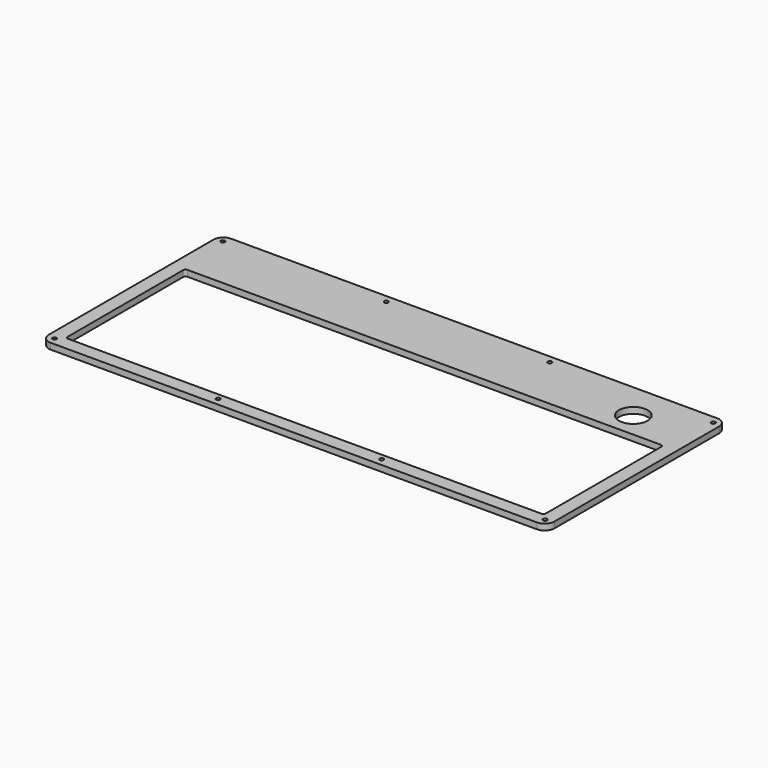
from build123d import *

# Parameters (mm, degrees)
SKETCH_W        = 263.525
SKETCH_H        = 117.475
PAD_DEPTH       = 3.175
SKETCH002_W     = 249.2375
SKETCH002_H     = 77.7875
POCKET_DEPTH    = 3.176
SKETCH003_R     = 7.5
POCKET001_DEPTH = 3.176
SKETCH001_R     = 1.05029
HOLE_DEPTH      = 3.176
FILLET_R        = 5.08
FILLET001_R     = 1.27


with BuildPart() as part:
    # Sketch → Pad (new body)
    with BuildSketch(Plane.XY):
        Rectangle(SKETCH_W, SKETCH_H)
    extrude(amount=PAD_DEPTH)

    # Sketch002 (on Face6 of Pad) → Pocket (cut, through all)
    with BuildSketch(Plane.XY.offset(3.175)):
        with Locations((0, -12.7)):
            Rectangle(SKETCH002_W, SKETCH002_H)
    extrude(amount=-POCKET_DEPTH, mode=Mode.SUBTRACT)

    # Sketch003 (on Face5 of Pocket) → Pocket001 (cut, through all)
    with BuildSketch(Plane.XY.offset(3.175)):
        with Locations((98.425, 39.37)):
            Circle(SKETCH003_R)
    extrude(amount=-POCKET001_DEPTH, mode=Mode.SUBTRACT)

    # Sketch001 (on Face6 of Pad) → Hole (cut, through all)
    with BuildSketch(Plane.XY.offset(3.175)):
        with Locations((-42.597917, 54.76875)):
            Circle(SKETCH001_R)
        with Locations((42.597917, 54.76875)):
            Circle(SKETCH001_R)
        with Locations((42.597917, -54.76875)):
            Circle(SKETCH001_R)
        with Locations((-42.597917, -54.76875)):
            Circle(SKETCH001_R)
        with Locations((-127.79375, -54.76875)):
            Circle(SKETCH001_R)
        with Locations((-127.79375, 54.76875)):
            Circle(SKETCH001_R)
        with Locations((127.79375, 54.76875)):
            Circle(SKETCH001_R)
        with Locations((127.79375, -54.76875)):
            Circle(SKETCH001_R)
    extrude(amount=-HOLE_DEPTH, mode=Mode.SUBTRACT)

    # Fillet
    fillet_edges = [part.edges().sort_by_distance(p)[0] for p in [
        (-131.7625, 58.7375, 1.5875),
        (-131.7625, -58.7375, 1.5875),
        (131.7625, -58.7375, 1.5875),
        (131.7625, 58.7375, 1.5875),
    ]]
    fillet(fillet_edges, radius=FILLET_R)

    # Fillet001
    fillet001_edges = [part.edges().sort_by_distance(p)[0] for p in [
        (-124.61875, -51.59375, 1.5875),
        (-124.61875, 26.19375, 1.5875),
        (124.61875, 26.19375, 1.5875),
        (124.61875, -51.59375, 1.5875),
    ]]
    fillet(fillet001_edges, radius=FILLET001_R)


solid = part.part
